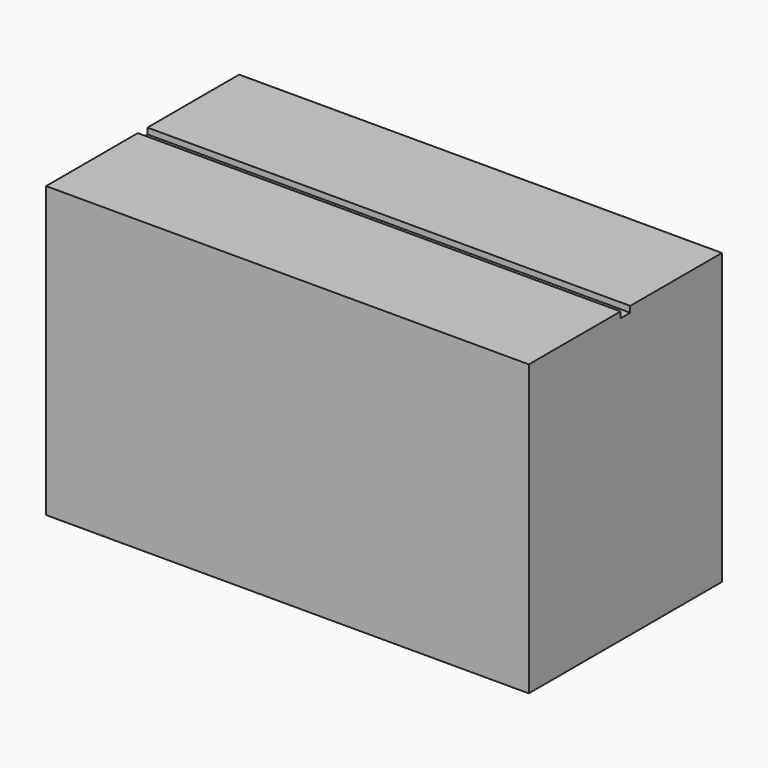
from build123d import *

# Parameters (mm, degrees)
F0_W     = 400
F0_H     = 480
F1_DEPTH = 800
F3_DEPTH = 800


with BuildPart() as f1:
    # F0 (on Right) → F1 (new body)
    with BuildSketch(Plane.YZ):
        with Locations((39.391704, 103.56401)):
            Rectangle(F0_W, F0_H)
    extrude(amount=-F1_DEPTH)

    # F2 (on face) → F3 (cut)
    with BuildSketch(Plane.YZ):
        Polygon((39.391704, 343.56401), (29.391704, 343.56401), (29.391704, 333.56401), (49.391704, 333.56401), (49.391704, 343.56401), align=None)
    extrude(amount=-F3_DEPTH, mode=Mode.SUBTRACT)


solid = f1.part
